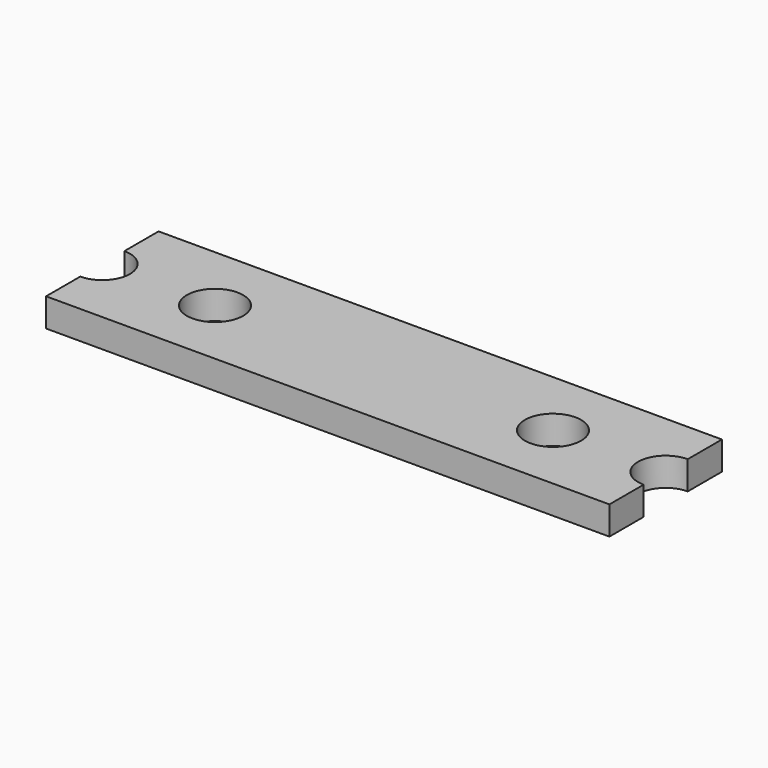
from build123d import *

# Parameters (mm, degrees)
F0_W     = 31.75
F0_H     = 1.6
F1_DEPTH = 3.9625
F2_R     = 1.5875
F2_R_2   = 1.554687
F3_DEPTH = 1.601


with BuildPart() as f1:
    # F0 (on Front) → F1 (new body, symmetric)
    with BuildSketch(Plane.XZ):
        Rectangle(F0_W, F0_H)
    extrude(amount=F1_DEPTH, both=True)

    # F2 (on face) → F3 (cut, through all)
    with BuildSketch(Plane.XY.offset(0.8)):
        with Locations((-9.525, 0)):
            Circle(F2_R)
        with Locations((9.525, 0)):
            Circle(F2_R)
        with Locations((-15.875, 0)):
            Circle(F2_R_2)
        with Locations((15.875, 0)):
            Circle(F2_R_2)
    extrude(amount=-F3_DEPTH, mode=Mode.SUBTRACT)


solid = f1.part
